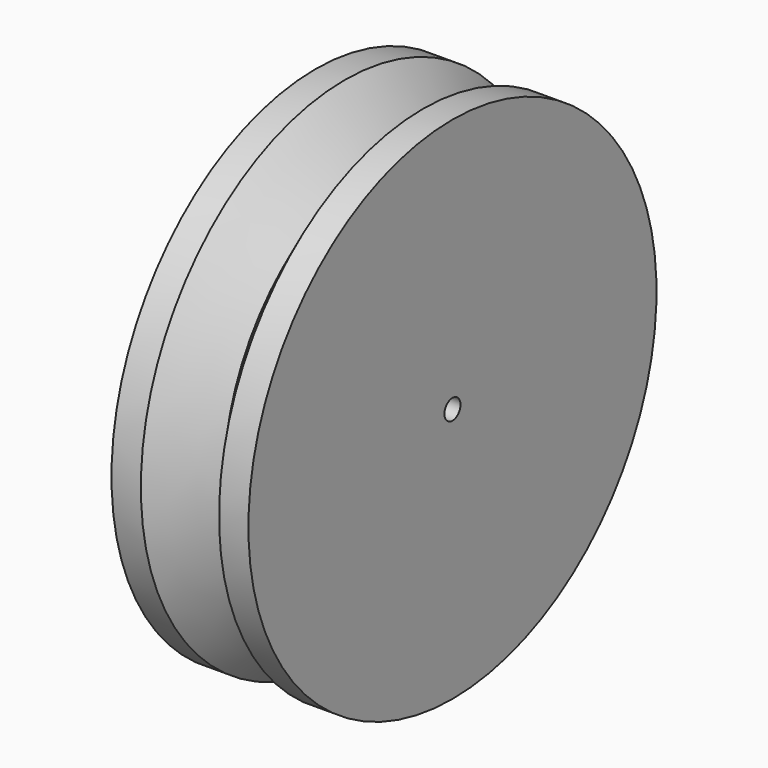
from build123d import *

# Parameters (mm, degrees)
F2_R          = 1.25
F3_DEPTH      = 20.27429
F3_DEPTH_BACK = 25.4


with BuildPart() as f1:
    # F0 (on Front) → F1 (revolve)
    with BuildSketch(Plane.XZ):
        Polygon((-8.925244, 31.75), (-8.925244, 0), (8.118968, 0), (8.118968, 31.75), (4.463934, 31.75), (0, 25.4), (-5.270211, 31.75), align=None)
    revolve(axis=Axis((32.369299, 0, 0), (1, 0, 0)))

    # F2 (on Right) → F3 (cut, two sides)
    with BuildSketch(Plane.YZ) as f3_sk:
        Circle(F2_R)
    extrude(amount=F3_DEPTH, mode=Mode.SUBTRACT)
    extrude(f3_sk.sketch, amount=-F3_DEPTH_BACK, mode=Mode.SUBTRACT)


solid = f1.part
